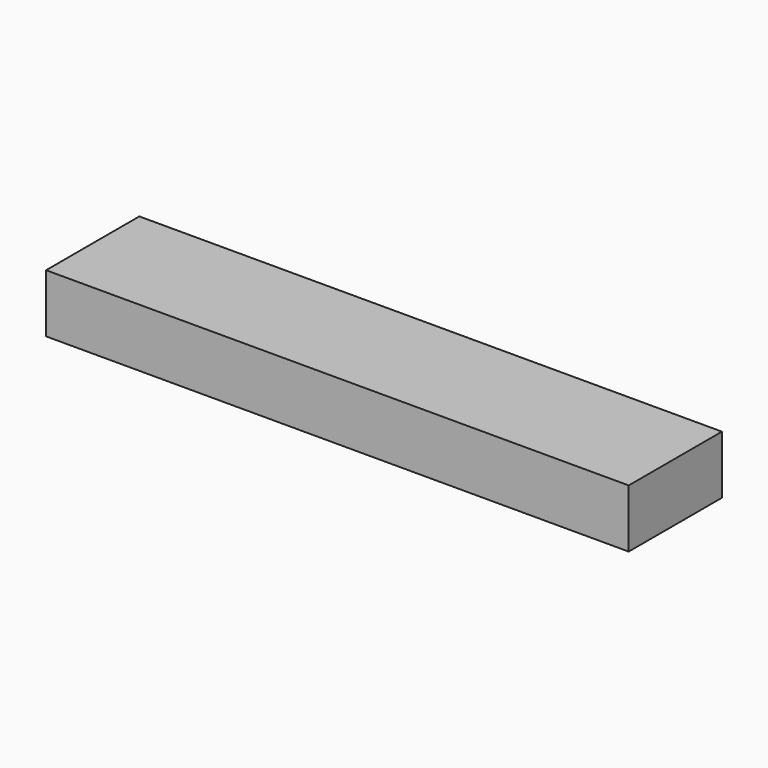
from build123d import *

# Parameters (mm, degrees)
BEAM_W     = 100
BEAM_H     = 20
BEAM_DEPTH = 10


with BuildPart() as part:
    # Beam → Beam (new body)
    with BuildSketch(Plane.XY):
        with Locations((50, 10)):
            Rectangle(BEAM_W, BEAM_H)
    extrude(amount=BEAM_DEPTH)


solid = part.part
